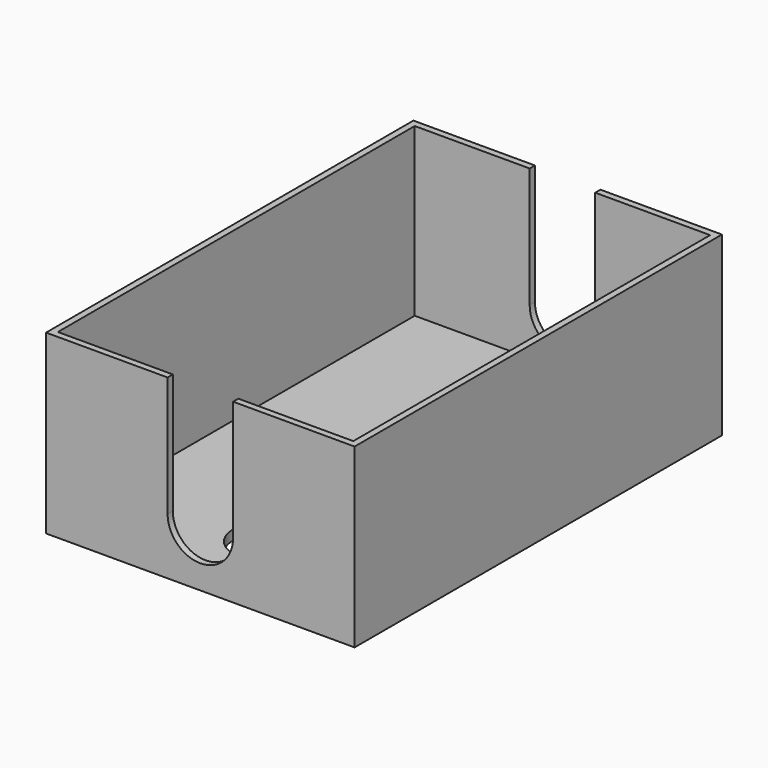
from build123d import *

# Parameters (mm, degrees)
F0_W     = 119.634
F0_H     = 178.054
F1_DEPTH = 68.58
F2_W     = 114.554
F2_H     = 172.974
F3_DEPTH = 64.77
F5_DEPTH = 190.5
F6_R     = 12.7
F7_DEPTH = 5.08


with BuildPart() as f1:
    # F0 (on Top) → F1 (new body)
    with BuildSketch(Plane.XY):
        Rectangle(F0_W, F0_H)
    extrude(amount=F1_DEPTH)

    # F2 (on face) → F3 (cut)
    with BuildSketch(Plane.XY.offset(68.58)):
        Rectangle(F2_W, F2_H)
    extrude(amount=-F3_DEPTH, mode=Mode.SUBTRACT)

    # F4 (on face) → F5 (cut)
    with BuildSketch(Plane.XZ.offset(89.027)):
        with BuildLine():
            ThreePointArc((-12.7, 21.965362), (0, 9.265362), (12.7, 21.965362))
            ThreePointArc((12.7, 21.965362), (0, 34.665362), (-12.7, 21.965362))
        make_face()
        with BuildLine():
            ThreePointArc((-12.7, 21.965362), (0, 34.665362), (12.7, 21.965362))
            Line((12.7, 21.965362), (12.7, 68.58))
            Line((12.7, 68.58), (-12.7, 68.58))
            Line((-12.7, 68.58), (-12.7, 21.965362))
        make_face()
    extrude(amount=-F5_DEPTH, mode=Mode.SUBTRACT)

    # F6 (on face) → F7 (cut)
    with BuildSketch(Plane(origin=(0, 0, 0), x_dir=(1, 0, 0), z_dir=(0, 0, -1))):
        with Locations((0, 57.277)):
            Circle(F6_R)
        with Locations((0, -57.277)):
            Circle(F6_R)
    extrude(amount=-F7_DEPTH, mode=Mode.SUBTRACT)


solid = f1.part
